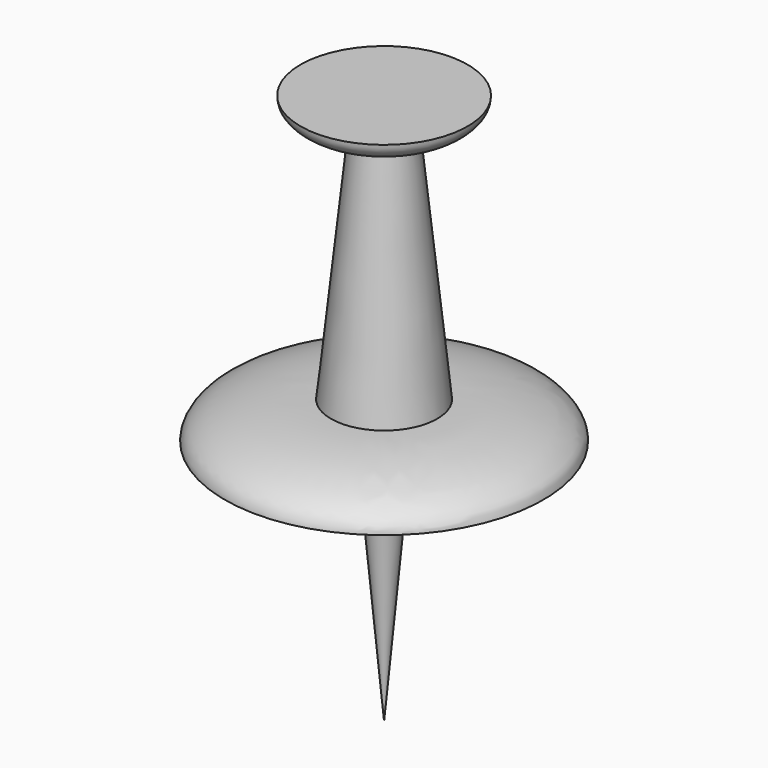
from build123d import *


with BuildPart() as f2:
    # F1 (on Front) → F2 (revolve)
    with BuildSketch(Plane.XZ):
        with BuildLine():
            Line((-2.1166666667, 0), (-6.35, 0))
            add(Edge.make_bspline(
                [(-6.35, 0), (-6.35, -2.032), (-2.1166666667, -2.032)],
                knots=[0, 0, 0, 1.5707963268, 1.5707963268, 1.5707963268], degree=2, weights=[1, 0.7071067812, 1]))
            Line((-2.1166666667, -2.032), (-2.1166666667, 0))
        make_face()
        Polygon((0, 0), (-2.1166666667, 0), (-2.1166666667, -2.032), (-4.0361362, -20.32), (-4.0361362, -23.114), (-1.6770949587, -23.114), (0, -23.114), align=None)
        with BuildLine():
            Line((-4.0361362, -23.114), (-4.0361362, -20.32))
            add(Edge.make_bspline(
                [(-4.0361362, -20.32), (-12.1084086, -20.32), (-12.1084086, -23.114)],
                knots=[4.7123889804, 4.7123889804, 4.7123889804, 6.2831853072, 6.2831853072, 6.2831853072], degree=2, weights=[1, 0.7071067812, 1]))
            Line((-12.1084086, -23.114), (-4.0361362, -23.114))
        make_face()
        Polygon((0, -41.91), (0, -23.114), (-1.6770949587, -23.114), align=None)
    revolve(axis=Axis((0, 0, -11.557), (0, 0, -1)))


solid = f2.part
